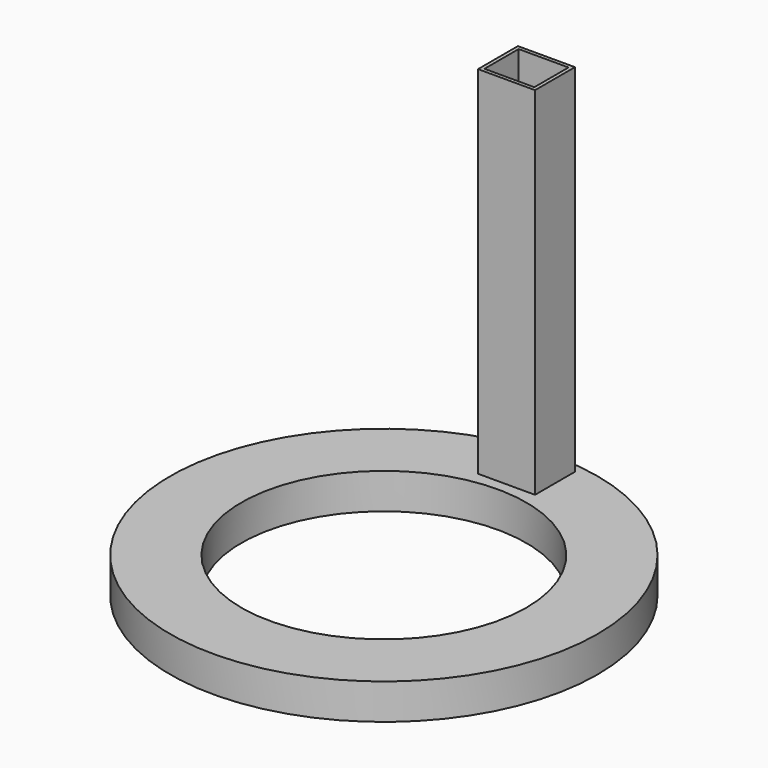
from build123d import *

# Parameters (mm, degrees)
F0_R     = 60
F1_DEPTH = 10
F2_R     = 40
F3_DEPTH = 10
F4_W     = 16
F4_H     = 14
F5_DEPTH = 100
F6_T     = -1


with BuildPart() as f1:
    # F0 (on Top) → F1 (new body)
    with BuildSketch(Plane.XY):
        Circle(F0_R)
    extrude(amount=F1_DEPTH)

    # F2 (on Top) → F3 (cut)
    with BuildSketch(Plane.XY):
        Circle(F2_R)
    extrude(amount=F3_DEPTH, mode=Mode.SUBTRACT)

    # F4 (on face) → F5 (join)
    with BuildSketch(Plane.XY.offset(10)):
        with Locations((0, 50.0458516181)):
            Rectangle(F4_W, F4_H)
    extrude(amount=F5_DEPTH)

    # F6
    f6_openings = [f1.faces().sort_by_distance(p)[0] for p in [
        (0, 50.045852, 110),
    ]]
    offset(amount=F6_T, openings=f6_openings, kind=Kind.INTERSECTION)


solid = f1.part
